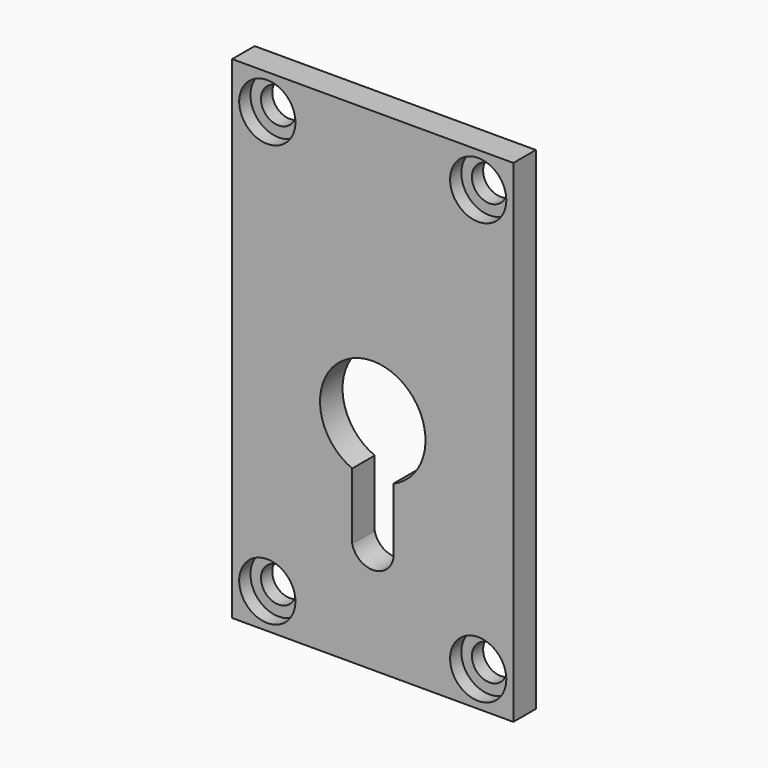
from build123d import *

# Parameters (mm, degrees)
F0_W     = 40
F0_H     = 70
F0_R     = 2.5
F1_DEPTH = 4
F2_R     = 2.5
F2_R_2   = 4
F3_DEPTH = 2
F5_DEPTH = 25


with BuildPart() as f1:
    # F0 (on Front) → F1 (new body)
    with BuildSketch(Plane.XZ):
        Rectangle(F0_W, F0_H)
        with Locations((-15, -30)):
            Circle(F0_R, mode=Mode.SUBTRACT)
        with Locations((15, -30)):
            Circle(F0_R, mode=Mode.SUBTRACT)
        with Locations((-15, 30)):
            Circle(F0_R, mode=Mode.SUBTRACT)
        with Locations((15, 30)):
            Circle(F0_R, mode=Mode.SUBTRACT)
    extrude(amount=F1_DEPTH)

    # F2 (on face) → F3 (cut)
    with BuildSketch(Plane.XZ.offset(4)):
        with Locations((-15, 30)):
            Circle(F2_R)
        with Locations((-15, -30)):
            Circle(F2_R)
        with Locations((15, 30)):
            Circle(F2_R)
        with Locations((15, -30)):
            Circle(F2_R)
        with Locations((15, 30)):
            Circle(F2_R_2)
        with Locations((15, 30)):
            Circle(F2_R, mode=Mode.SUBTRACT)
        with Locations((15, -30)):
            Circle(F2_R_2)
        with Locations((15, -30)):
            Circle(F2_R, mode=Mode.SUBTRACT)
        with Locations((-15, -30)):
            Circle(F2_R_2)
        with Locations((-15, -30)):
            Circle(F2_R, mode=Mode.SUBTRACT)
        with Locations((-15, 30)):
            Circle(F2_R_2)
        with Locations((-15, 30)):
            Circle(F2_R, mode=Mode.SUBTRACT)
    extrude(amount=-F3_DEPTH, mode=Mode.SUBTRACT)

    # F4 (on face) → F5 (cut)
    with BuildSketch(Plane.XZ.offset(4)):
        with BuildLine():
            Line((2.921996, -20.153533), (2.921996, -10.71458))
            ThreePointArc((2.921996, -10.71458), (0, 3.692803), (-2.921996, -10.71458))
            Line((-2.921996, -10.71458), (-2.921996, -20.153533))
            ThreePointArc((-2.921996, -20.153533), (0, -22.473871), (2.921996, -20.153533))
        make_face()
    extrude(amount=-F5_DEPTH, mode=Mode.SUBTRACT)


solid = f1.part
